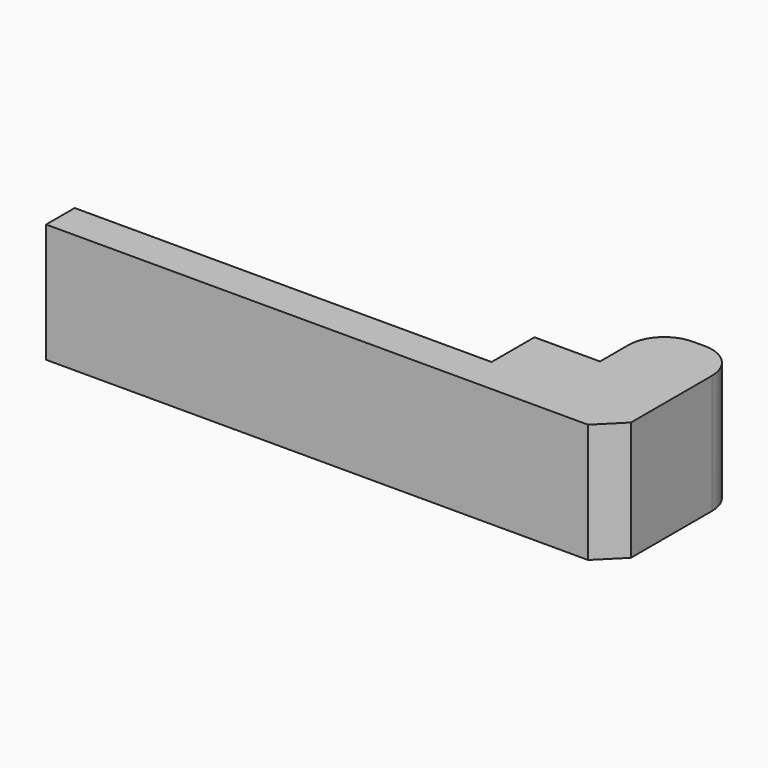
from build123d import *

# Parameters (mm, degrees)
BOX004_W     = 7
BOX004_H     = 6.5
BOX004_DEPTH = 10
FILLET_R     = 3
BOX002_W     = 12.5
BOX002_H     = 4.5
BOX002_DEPTH = 10
BOX001_W     = 47.5
BOX001_H     = 3
BOX001_DEPTH = 10
CHAMFER_SIZE = 2


with BuildPart() as fillet_body:
    # Box004 → Box004 (new body)
    with BuildSketch(Plane(origin=(0.5, -1, 0), x_dir=(1, 0, 0), z_dir=(0, 0, 1))):
        with Locations((3.5, 3.25)):
            Rectangle(BOX004_W, BOX004_H)
    extrude(amount=BOX004_DEPTH)

    # Fillet
    fillet_edges = [fillet_body.edges().sort_by_distance(p)[0] for p in [
        (0.5, 5.5, 5),
        (7.5, 5.5, 5),
    ]]
    fillet(fillet_edges, radius=FILLET_R)


with BuildPart() as cube002:
    # Box002 → Box002 (new body)
    with BuildSketch(Plane(origin=(-5, -5, 0), x_dir=(1, 0, 0), z_dir=(0, 0, 1))):
        with Locations((6.25, 2.25)):
            Rectangle(BOX002_W, BOX002_H)
    extrude(amount=BOX002_DEPTH)


with BuildPart() as arm_org:
    # Box001 → Box001 (new body)
    with BuildSketch(Plane(origin=(-40, -8, 0), x_dir=(1, 0, 0), z_dir=(0, 0, 1))):
        with Locations((23.75, 1.5)):
            Rectangle(BOX001_W, BOX001_H)
    extrude(amount=BOX001_DEPTH)

    # Chamfer
    chamfer_edges = [arm_org.edges().sort_by_distance(p)[0] for p in [
        (7.5, -8, 5),
    ]]
    chamfer(chamfer_edges, length=CHAMFER_SIZE)

    # Fusion: union Fillet body, Cube002
    add(fillet_body.part)
    add(cube002.part)


with BuildPart() as arm_org_1:
    # Fusion placement: moved
    add(arm_org.part.moved(Location((0, 0, 10.5))))


solid = arm_org_1.part
